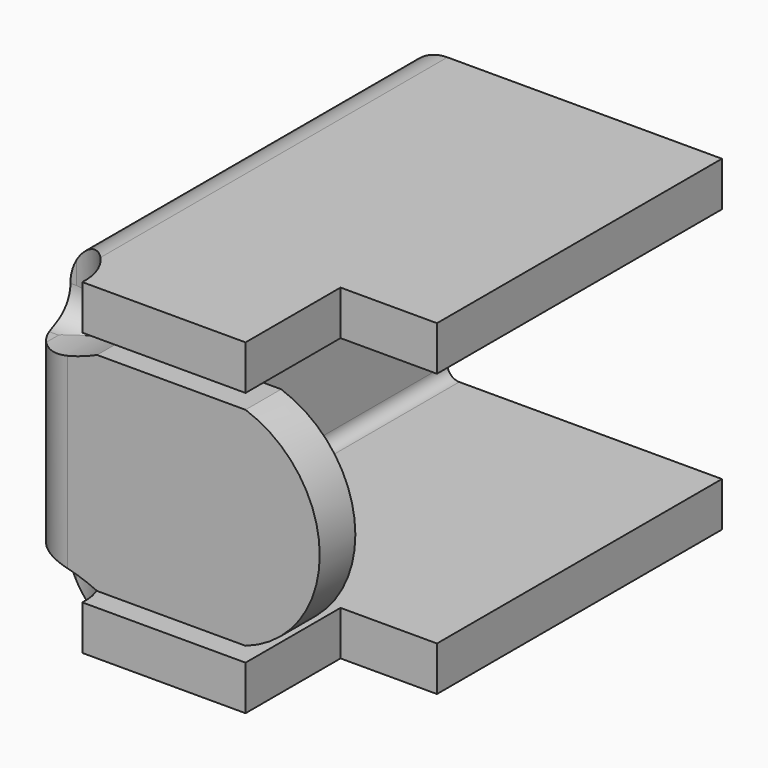
from build123d import *

# Parameters (mm, degrees)
PAD020_DEPTH              = 0.3
PAD019_DEPTH              = 0.3
PAD021_DEPTH              = 0.3
PAD018_DEPTH              = 0.3
FILLET004_R               = 0.3
FILLET005_R               = 0.08
FILLET005_PLACEMENT_ANGLE = 180


with BuildPart() as body020:
    # Sketch019 → Pad020 (new body)
    with BuildSketch(Plane.XZ.offset(2.4)):
        with BuildLine():
            Line((9.4, 1.8), (8.4, 1.8))
            ThreePointArc((8.4, 1.8), (7.9, 1.1), (8.4, 0.4))
            Line((8.4, 0.4), (9.4, 0.4))
            ThreePointArc((9.9, 0.5), (9.644126, 0.479372), (9.4, 0.4))
            Line((9.9, 0.5), (9.9, 1.7))
            ThreePointArc((9.4, 1.8), (9.644126, 1.720628), (9.9, 1.7))
        make_face()
    extrude(amount=-PAD020_DEPTH)


with BuildPart() as body021:
    # Sketch021 → Pad019 (new body)
    with BuildSketch(Plane.XY):
        with BuildLine():
            Line((9.5, -2.4), (8.4, -2.4))
            Line((8.4, -2.4), (8.4, -1.6))
            Line((8.4, -1.6), (7.75, -1.6))
            Line((7.75, -1.6), (7.75, 0.8))
            Line((7.75, 0.8), (9.9, 0.8))
            Line((9.9, 0.8), (9.9, -2))
            ThreePointArc((9.9, -2), (9.610743, -2.110743), (9.5, -2.4))
        make_face()
    extrude(amount=PAD019_DEPTH)


with BuildPart() as body019:
    # Sketch020 → Pad021 (new body)
    with BuildSketch(Plane.XY.offset(1.9)):
        with BuildLine():
            Line((9.5, -2.4), (8.4, -2.4))
            Line((8.4, -2.4), (8.4, -1.6))
            Line((8.4, -1.6), (7.75, -1.6))
            Line((7.75, -1.6), (7.75, 0.8))
            Line((7.75, 0.8), (9.9, 0.8))
            Line((9.9, 0.8), (9.9, -2))
            ThreePointArc((9.9, -2), (9.610743, -2.110743), (9.5, -2.4))
        make_face()
    extrude(amount=PAD021_DEPTH)


with BuildPart() as fillet005:
    # Sketch018 → Pad018 (new body)
    with BuildSketch(Plane.YZ.offset(9.9)):
        with BuildLine():
            Line((0.8, 2.2), (0.8, 0))
            Line((0.8, 0), (-2, 0))
            Line((-2, 0), (-2, 0.3))
            ThreePointArc((-2, 0.3), (-2.058579, 0.441421), (-2.2, 0.5))
            Line((-2.2, 0.5), (-2.4, 0.5))
            Line((-2.4, 1.7), (-2.4, 0.5))
            Line((-2.2, 1.7), (-2.4, 1.7))
            ThreePointArc((-2.2, 1.7), (-2.058579, 1.758579), (-2, 1.9))
            Line((-2, 1.9), (-2, 2.2))
            Line((-2, 2.2), (0.8, 2.2))
        make_face()
    extrude(amount=-PAD018_DEPTH)

    # Fusion003: union Body020, Body021, Body019
    add(body020.part)
    add(body021.part)
    add(body019.part)

    # Fillet004
    fillet004_edges = [fillet005.edges().sort_by_distance(p)[0] for p in [
        (9.9, -2.4, 1.1),
        (9.9, -0.6, 0),
        (9.9, -0.6, 2.2),
    ]]
    fillet(fillet004_edges, radius=FILLET004_R)

    # Fillet005
    fillet005_edges = [fillet005.edges().sort_by_distance(p)[0] for p in [
        (9.6, -2.1, 1.1),
        (9.6, -0.6, 0.3),
        (9.6, -0.6, 1.9),
    ]]
    fillet(fillet005_edges, radius=FILLET005_R)


with BuildPart() as fillet005_1:
    # Fillet005 placement: moved
    add(fillet005.part.moved(Location((0, 0, 2.2))).rotate(Axis((0, 0, 2.2), (0, 1, 0)), FILLET005_PLACEMENT_ANGLE))


solid = fillet005_1.part
